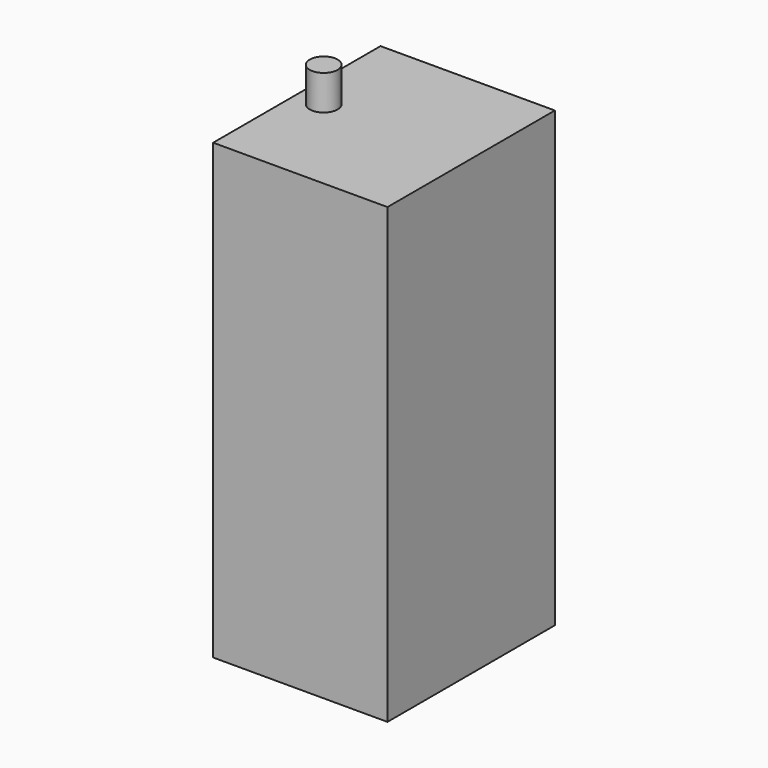
from build123d import *

# Parameters (mm, degrees)
F0_W          = 50
F0_H          = 130
F1_DEPTH      = 30
F1_DEPTH_BACK = 30
F2_R          = 4
F3_DEPTH      = 10


with BuildPart() as f1:
    # F0 (on Front) → F1 (new body, two sides)
    with BuildSketch(Plane.XZ) as f1_sk:
        with Locations((-0.619468, 65)):
            Rectangle(F0_W, F0_H)
    extrude(amount=F1_DEPTH)
    extrude(f1_sk.sketch, amount=-F1_DEPTH_BACK)

    # F2 (on face) → F3 (join)
    with BuildSketch(Plane.XY.offset(130)):
        with Locations((-17.916409, 0)):
            Circle(F2_R)
    extrude(amount=F3_DEPTH)


solid = f1.part
